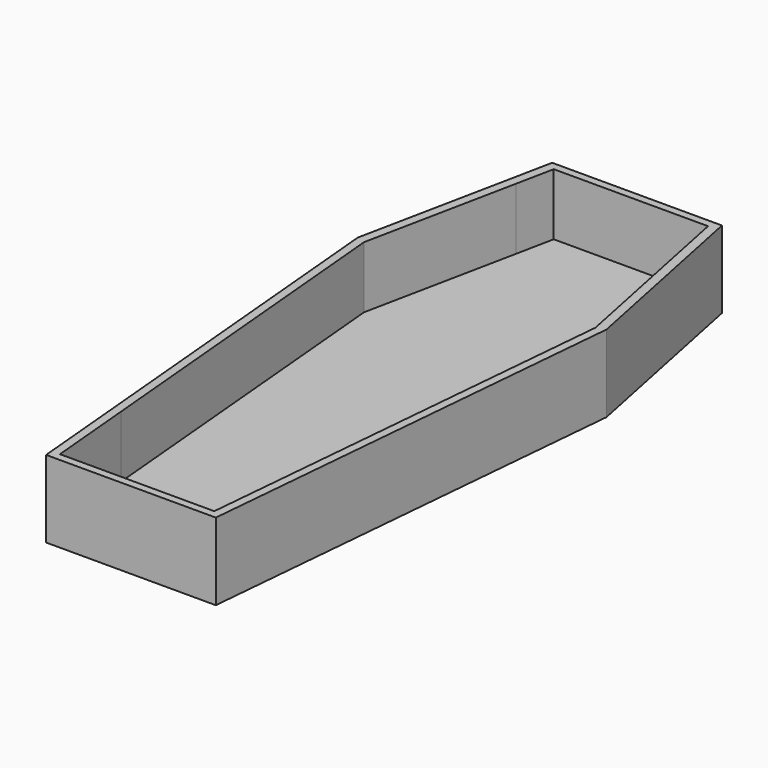
from build123d import *

# Parameters (mm, degrees)
F0_W     = 20
F0_H     = 80
F1_DEPTH = 2
F2_DEPTH = 10


with BuildPart() as f1:
    # F0 (on Top) → F1 (new body)
    with BuildSketch(Plane.XY):
        Rectangle(F0_W, F0_H)
        Polygon((-10, -40), (-10, 40), (-11, 35.101021), (-11, -28.898979), align=None)
        Polygon((11, 35.101021), (10, 40), (10, -40), (11, -28.898979), align=None)
        Polygon((-11, -28.898979), (-11, 35.101021), (-15, 15.505103), align=None)
        Polygon((15, 15.505103), (11, 35.101021), (11, -28.898979), align=None)
    extrude(amount=F1_DEPTH)

    # F0 (on Top) → F2 (join)
    with BuildSketch(Plane.XY):
        Polygon((-15, 15.505103), (-11, 35.101021), (-11, 41), (-16.125, 15.89273), (-11, -41), (-11, -28.898979), align=None)
        Polygon((-10, 40), (10, 40), (11, 35.101021), (11, 41), (-11, 41), (-11, 35.101021), align=None)
        Polygon((11, 41), (11, 35.101021), (15, 15.505103), (11, -28.898979), (11, -41), (16.125, 15.89273), align=None)
        Polygon((11, -28.898979), (10, -40), (-10, -40), (-11, -28.898979), (-11, -41), (11, -41), align=None)
    extrude(amount=F2_DEPTH)


solid = f1.part
